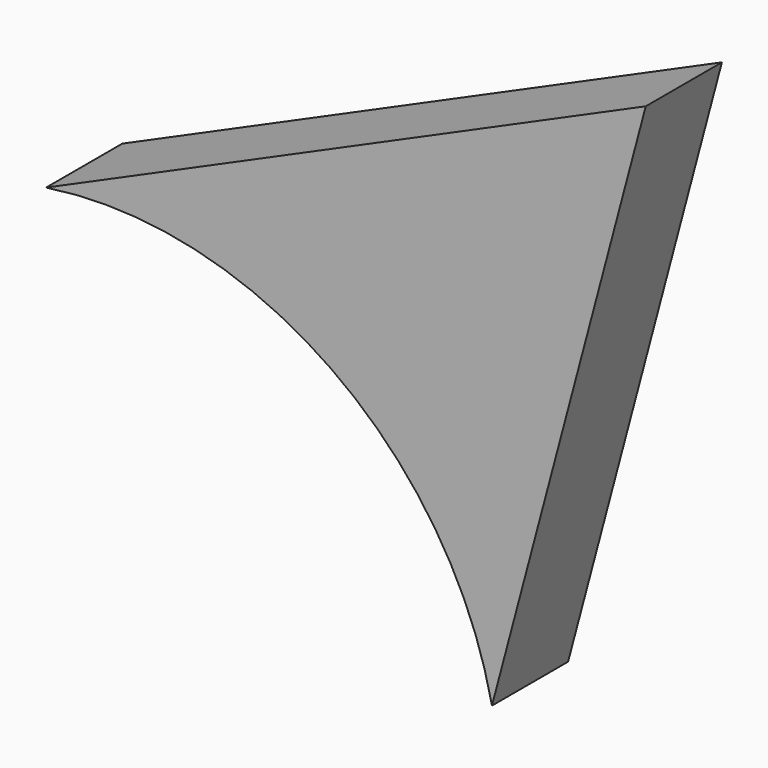
from build123d import *

# Parameters (mm, degrees)
F1_DEPTH = 25.4


with BuildPart() as f1:
    # F0 (on Front) → F1 (new body)
    with BuildSketch(Plane.XZ):
        with BuildLine():
            Line((24.676064, -83.015189), (65.722503, 71.136713))
            Line((65.722503, 71.136713), (-94.297498, 0))
            ThreePointArc((-94.297498, 0), (-18.269389, -17.801321), (24.676064, -83.015189))
        make_face()
    extrude(amount=F1_DEPTH)


solid = f1.part
